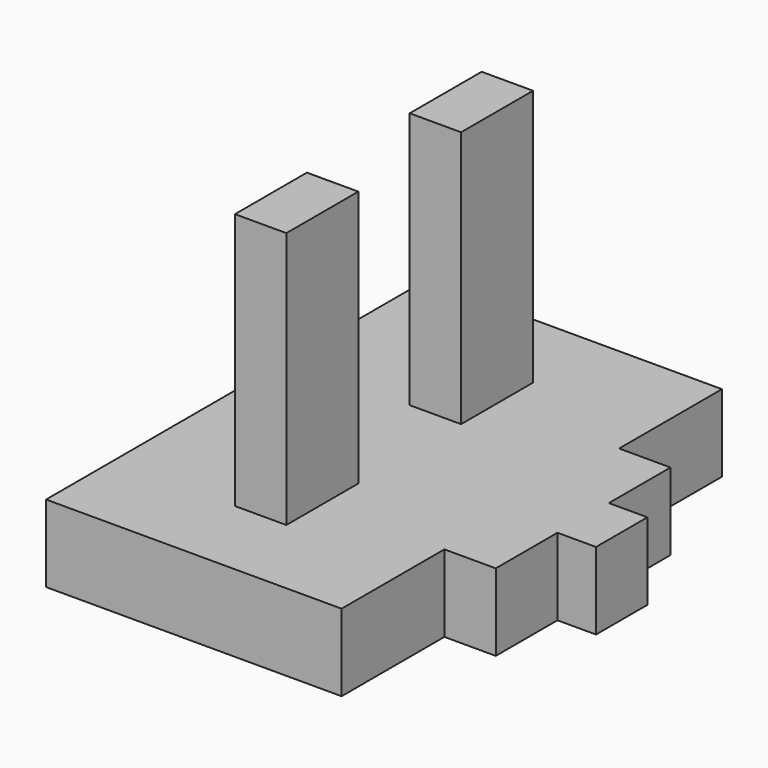
from build123d import *

# Parameters (mm, degrees)
F0_W     = 4
F0_H     = 7
F0_W_2   = 3
F0_H_2   = 5
F1_DEPTH = 6
F2_DEPTH = 26


with BuildPart() as f1:
    # F0 (on Top) → F1 (new body)
    with BuildSketch(Plane.XY):
        Polygon((23, 0), (0, 0), (0, -37), (23, -37), (23, -27), (23, -10), align=None)
        with Locations((11.5, -27)):
            Rectangle(F0_W, F0_H, mode=Mode.SUBTRACT)
        with Locations((11.5, -10)):
            Rectangle(F0_W, F0_H, mode=Mode.SUBTRACT)
        Polygon((27, -10), (23, -10), (23, -27), (27, -27), (27, -21), (27, -16), align=None)
        with Locations((28.5, -18.5)):
            Rectangle(F0_W_2, F0_H_2)
    extrude(amount=F1_DEPTH)

    # F0 (on Top) → F2 (join)
    with BuildSketch(Plane.XY):
        with Locations((11.5, -10)):
            Rectangle(F0_W, F0_H)
        with Locations((11.5, -27)):
            Rectangle(F0_W, F0_H)
    extrude(amount=F2_DEPTH)


solid = f1.part
